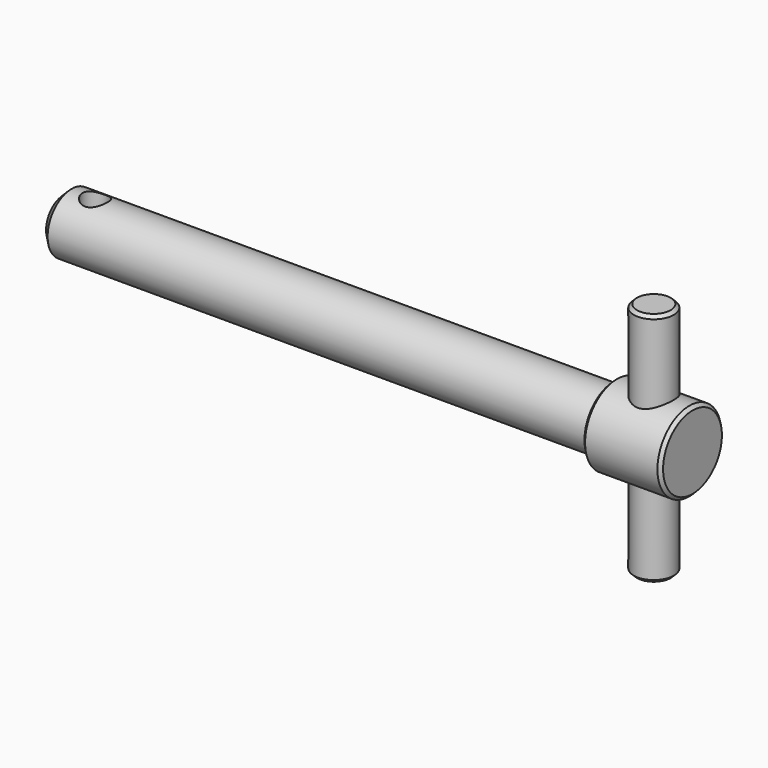
from build123d import *

# Parameters (mm, degrees)
F0_R     = 9.5
F1_DEPTH = 100
F2_R     = 12.7
F2_R_2   = 9.5
F3_DEPTH = 25
F4_R     = 6.35
F5_DEPTH = 37.5
F4_R_2   = 4
F6_DEPTH = 12.5
F7_SIZE  = 2.5
F8_SIZE  = 1


with BuildPart() as f1:
    # F0 (on Right) → F1 (new body, symmetric)
    with BuildSketch(Plane.YZ):
        Circle(F0_R)
    extrude(amount=F1_DEPTH, both=True)

    # F2 (on face) → F3 (join)
    with BuildSketch(Plane.YZ.offset(100)):
        Circle(F2_R)
        Circle(F2_R_2, mode=Mode.SUBTRACT)
    extrude(amount=-F3_DEPTH)

    # F4 (on Top) → F5 (join, symmetric)
    with BuildSketch(Plane.XY):
        with Locations((87.7, 0)):
            Circle(F4_R)
    extrude(amount=F5_DEPTH, both=True)

    # F4 (on Top) → F6 (cut, symmetric)
    with BuildSketch(Plane.XY):
        with Locations((-90, 0)):
            Circle(F4_R_2)
    extrude(amount=F6_DEPTH, both=True, mode=Mode.SUBTRACT)

    # F7
    f7_edges = [f1.edges().sort_by_distance(p)[0] for p in [
        (-100, -9.5, 0),
    ]]
    chamfer(f7_edges, length=F7_SIZE)

    # F8
    f8_edges = [f1.edges().sort_by_distance(p)[0] for p in [
        (75, -12.7, 0),
        (100, -12.7, 0),
        (81.35, 0, -37.5),
        (81.35, 0, 37.5),
    ]]
    chamfer(f8_edges, length=F8_SIZE)


solid = f1.part
